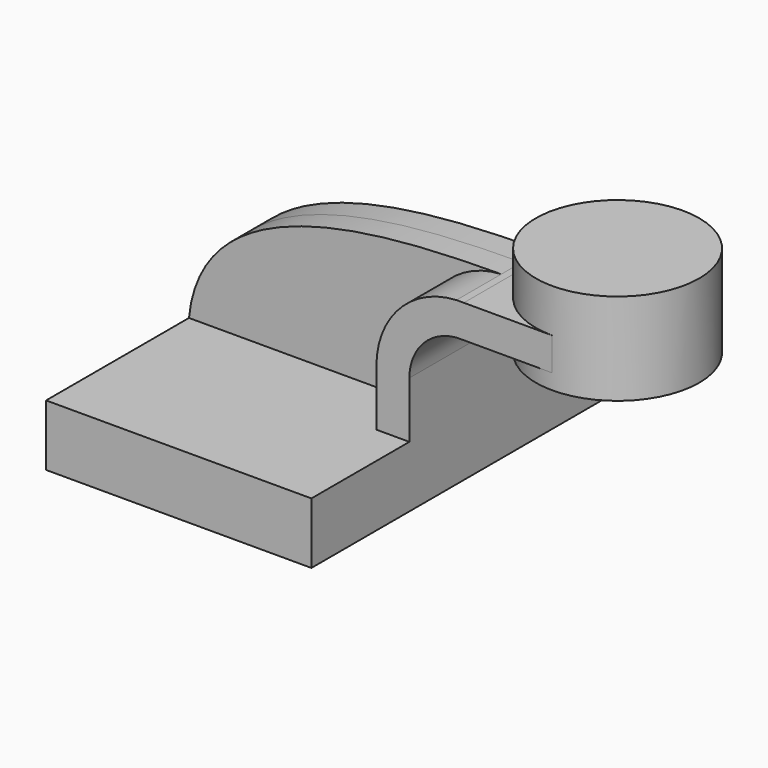
from build123d import *

# Parameters (mm, degrees)
F1_DEPTH = 63.5
F0_W     = 25.4
F0_H     = 10.2552045137
F2_DEPTH = 25.4
F3_DEPTH = 7.9375


with BuildPart() as f1:
    # F0 (on Front) → F1 (new body, symmetric)
    with BuildSketch(Plane.XZ):
        Polygon((-41.275, 9.525), (-41.275, -9.525), (41.275, -9.525), (41.275, 9.525), (31.0197954863, 9.525), align=None)
    extrude(amount=F1_DEPTH, both=True)

    # F0 (on Front) → F2 (join, symmetric)
    with BuildSketch(Plane.XZ):
        with BuildLine():
            Line((31.0197954863, 9.525), (41.275, 9.525))
            Line((41.275, 9.525), (41.275, 27.0218505154))
            ThreePointArc((41.275, 27.0218505154), (46.2216382961, 38.5364731957), (57.978815492, 42.8752))
            Line((57.978815492, 42.8752), (60.325, 42.8752))
            Line((60.325, 42.8752), (60.325, 53.1304045137))
            Line((60.325, 53.1304045137), (58.2134829791, 53.1304045137))
            add(Edge.make_bspline(
                [(55.9138915665, 53.1228011469), (56.6888329701, 53.1264926522), (57.455577593, 53.128923314), (58.2134829791, 53.1304045137)],
                knots=[106.4066342926, 106.4066342926, 106.4066342926, 106.4066342926, 108.6249950439, 108.6249950439, 108.6249950439, 108.6249950439], degree=3))
            ThreePointArc((55.9138915665, 53.1228011469), (38.2411746254, 45.0563704946), (31.0197954863, 27.0218505154))
            Line((31.0197954863, 27.0218505154), (31.0197954863, 9.525))
        make_face()
        with Locations((73.025, 48.0028022568)):
            Rectangle(F0_W, F0_H)
    extrude(amount=F2_DEPTH, both=True)

    # F0 (on Front) → F3 (join, symmetric)
    with BuildSketch(Plane.XZ):
        with BuildLine():
            add(Edge.make_bspline(
                [(-41.275, 9.525), (-37.2872071441, 49.8677554135), (18.7427928229, 52.94573317), (55.9138915665, 53.1228011469)],
                knots=[0, 0, 0, 0, 106.4066342926, 106.4066342926, 106.4066342926, 106.4066342926], degree=3))
            Line((-41.275, 9.525), (31.0197954863, 9.525))
            Line((31.0197954863, 9.525), (31.0197954863, 27.0218505154))
            ThreePointArc((31.0197954863, 27.0218505154), (38.2411746254, 45.0563704946), (55.9138915665, 53.1228011469))
        make_face()
    extrude(amount=F3_DEPTH, both=True)

    # F0 (on Front) → F4 (revolve)
    with BuildSketch(Plane.XZ):
        Polygon((85.725, 66.675), (85.725, 53.1304045137), (85.725, 42.8752), (85.725, 38.1), (111.125, 38.1), (111.125, 66.675), align=None)
    revolve(axis=Axis((85.725, 0, 52.3875), (0, 0, -1)))


solid = f1.part
